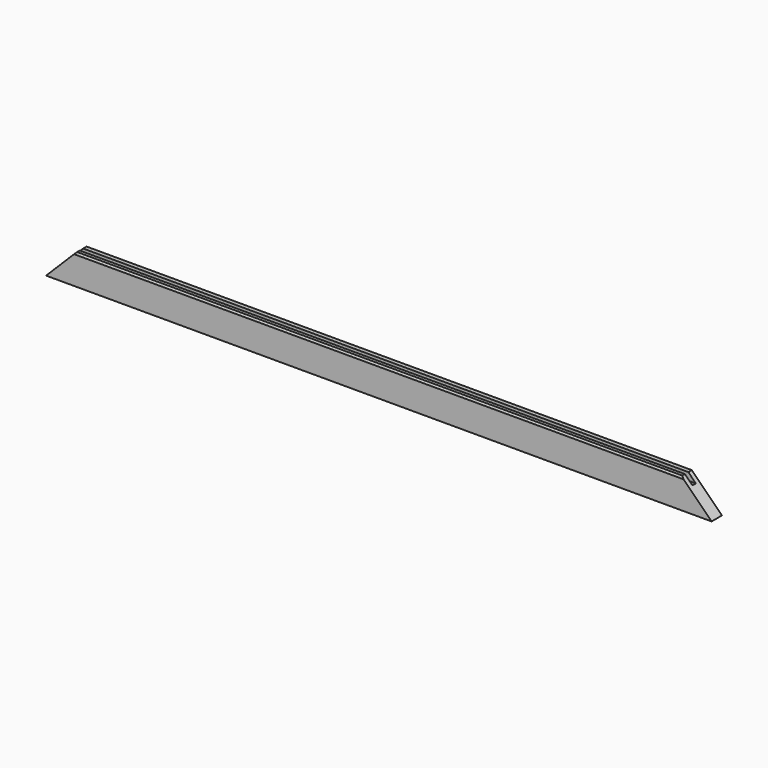
from build123d import *

# Parameters (mm, degrees)
F0_W     = 981.075
F0_H     = 44.45
F1_DEPTH = 19.05
F2_W     = 6.35
F2_H     = 11.1125
F3_DEPTH = 981.076
F4_SIZE2 = 3.175
F4_SIZE  = 1.5875
F6_DEPTH = 19.051


with BuildPart() as f1:
    # F0 (on Front) → F1 (new body)
    with BuildSketch(Plane.XZ):
        Rectangle(F0_W, F0_H)
    extrude(amount=F1_DEPTH)

    # F2 (on face) → F3 (cut, through all)
    with BuildSketch(Plane(origin=(-490.5375, 0, 0), x_dir=(0, -1, 0), z_dir=(-1, 0, 0))):
        with Locations((9.525, 16.66875)):
            Rectangle(F2_W, F2_H)
    extrude(amount=-F3_DEPTH, mode=Mode.SUBTRACT)

    # F4
    f4_edges = [f1.edges().sort_by_distance(p)[0] for p in [
        (0, -19.05, 22.225),
    ]]
    chamfer(f4_edges, length=F4_SIZE, length2=F4_SIZE2)

    # F5 (on face) → F6 (cut, through all)
    with BuildSketch(Plane(origin=(0, 0, 0), x_dir=(-1, 0, 0), z_dir=(0, 1, 0))):
        Polygon((-490.5375, 22.225), (-490.5375, -22.225), (-446.0875, 22.225), align=None)
        Polygon((446.0875, 22.225), (490.5375, -22.225), (490.5375, 22.225), align=None)
    extrude(amount=-F6_DEPTH, mode=Mode.SUBTRACT)


solid = f1.part
